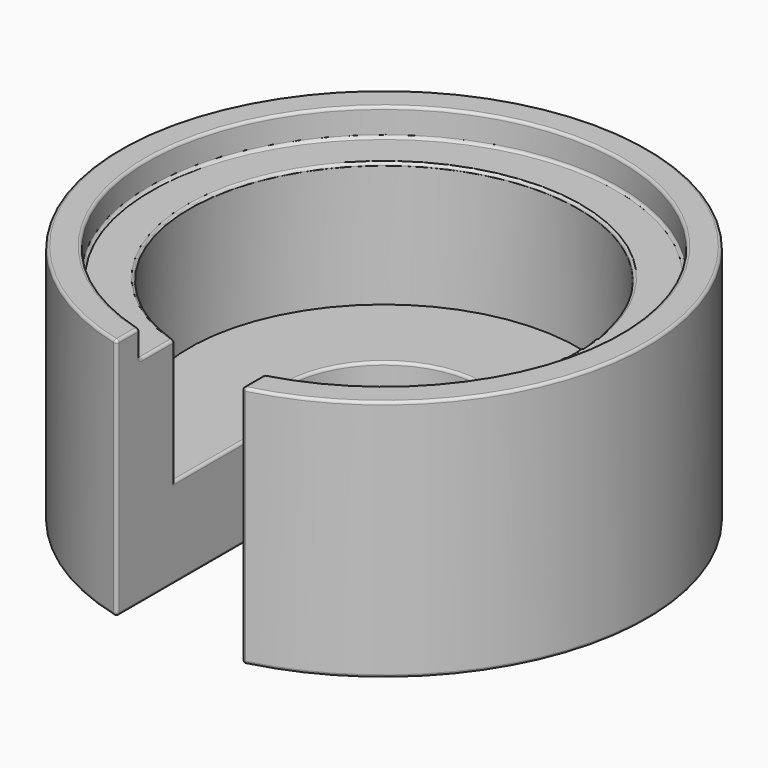
from build123d import *

# Parameters (mm, degrees)
F1_W     = 9
F1_H     = 26.4847505782
F3_DEPTH = 76.9
F4_R     = 0.2


with BuildPart() as f2:
    # F0 (on Front) → F2 (revolve)
    with BuildSketch(Plane.XZ):
        Polygon((7, 6.5), (7, 0), (19, 0), (19, 17.5), (17, 17.5), (17, 15.5), (14, 15.5), (14, 6.5), align=None)
    revolve(axis=Axis((0, 0, 0), (0, 0, 1)))

    # F1 (on Top) → F3 (cut)
    with BuildSketch(Plane.XY):
        with Locations((0, -14.1713153571)):
            Rectangle(F1_W, F1_H)
    extrude(amount=F3_DEPTH, mode=Mode.SUBTRACT)

    # F4
    f4_edges = [f2.edges().sort_by_distance(p)[0] for p in [
        (0, 19, 17.5),
        (0, 17, 17.5),
        (0, 14, 15.5),
        (0, 19, 0),
        (0, 7, 6.5),
        (4.5, -18.459415, 8.75),
        (-4.5, -18.459415, 8.75),
        (4.5, -13.257074, 11),
        (4.5, -9.309488, 6.5),
        (-4.5, -9.309488, 6.5),
        (-4.5, -16.393596, 16.5),
        (-4.5, -11.910659, 0),
        (-4.5, -13.257074, 11),
        (0, 17, 15.5),
        (4.5, -17.426506, 17.5),
        (0, 7, 0),
        (-4.5, -5.361903, 3.25),
        (4.5, -11.910659, 0),
        (-4.5, -14.825335, 15.5),
        (4.5, -5.361903, 3.25),
        (4.5, -14.825335, 15.5),
        (4.5, -16.393596, 16.5),
        (-4.5, -17.426506, 17.5),
    ]]
    fillet(f4_edges, radius=F4_R)


solid = f2.part
